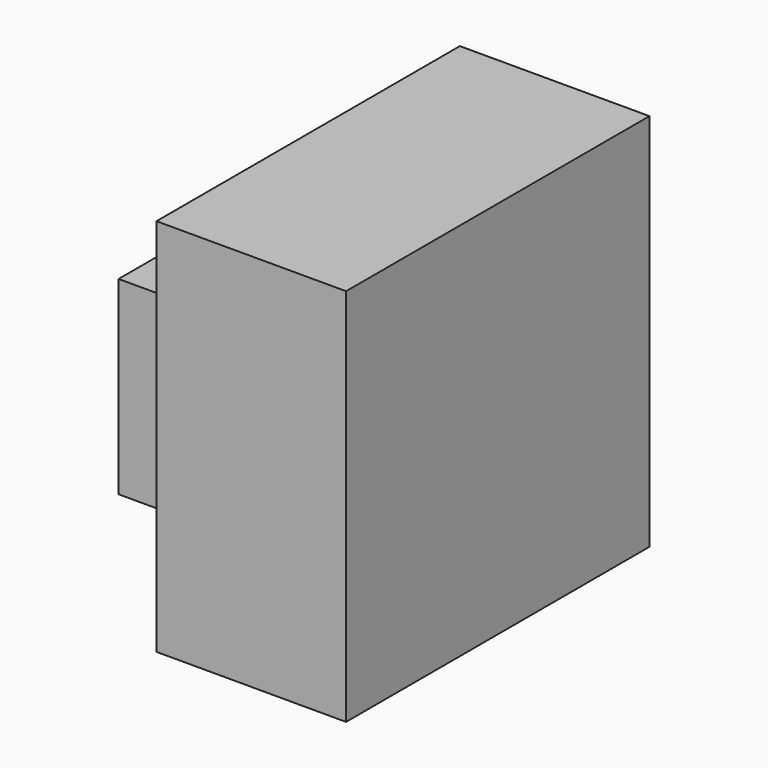
from build123d import *

# Parameters (mm, degrees)
F0_W     = 50.8
F0_H     = 50.8
F1_DEPTH = 25.4
F2_W     = 25.4
F2_H     = 25.4
F3_DEPTH = 25.4


with BuildPart() as f1:
    # F0 (on Right) → F1 (new body)
    with BuildSketch(Plane.YZ):
        with Locations((-23.197958, -10.02209)):
            Rectangle(F0_W, F0_H)
    extrude(amount=F1_DEPTH)

    # F2 (on face) → F3 (join)
    with BuildSketch(Plane(origin=(0, 0, 0), x_dir=(0, -1, 0), z_dir=(-1, 0, 0))):
        with Locations((10.497958, -22.72209)):
            Rectangle(F2_W, F2_H)
    extrude(amount=F3_DEPTH)


solid = f1.part
